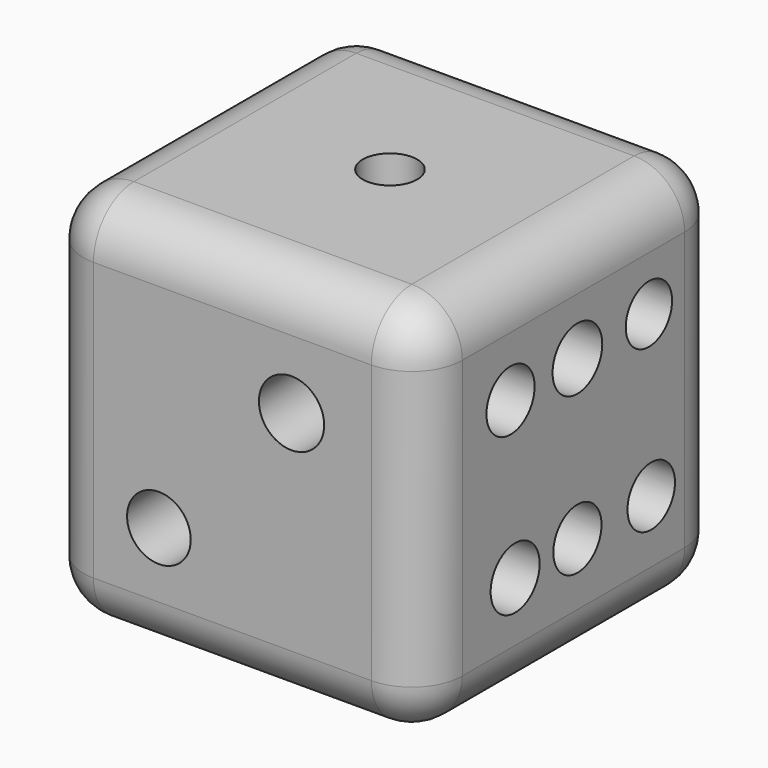
from build123d import *

# Parameters (mm, degrees)
F0_W      = 38.1
F0_H      = 38.1
F1_DEPTH  = 38.1
F2_R      = 5.08
F3_R      = 2.734829
F4_DEPTH  = 6.35
F5_R      = 3.201955
F5_R_2    = 3.279746
F6_DEPTH  = 6.35
F7_R      = 3.135653
F7_R_2    = 3.122225
F7_R_3    = 3.201953
F7_R_4    = 3.241083
F7_R_5    = 3.393092
F8_DEPTH  = 6.35
F9_R      = 2.898913
F9_R_2    = 2.984612
F9_R_3    = 2.913371
F10_DEPTH = 6.35
F11_R     = 3.026556
F11_R_2   = 2.956325
F11_R_3   = 3.380686
F11_R_4   = 2.913369
F12_DEPTH = 25.4
F13_R     = 3.026552
F13_R_2   = 3.122223
F13_R_3   = 3.026557
F13_R_4   = 3.081587
F13_R_5   = 2.984611
F13_R_6   = 2.913373
F14_DEPTH = 6.35


with BuildPart() as f1:
    # F0 (on Front) → F1 (new body)
    with BuildSketch(Plane.XZ):
        with Locations((-0.434836, -16.367298)):
            Rectangle(F0_W, F0_H)
    extrude(amount=F1_DEPTH)

    # F2
    f2_edges = [f1.edges().sort_by_distance(p)[0] for p in [
        (-19.484836, -19.05, 2.682702),
        (-0.434836, -38.1, 2.682702),
        (18.615164, -19.05, 2.682702),
        (-0.434836, 0, 2.682702),
        (18.615164, 0, -16.367298),
        (18.615164, -19.05, -35.417298),
        (-0.434836, 0, -35.417298),
        (18.615164, -38.1, -16.367298),
        (-19.484836, -38.1, -16.367298),
        (-0.434836, -38.1, -35.417298),
        (-19.484836, -19.05, -35.417298),
        (-19.484836, 0, -16.367298),
    ]]
    fillet(f2_edges, radius=F2_R)

    # F3 (on face) → F4 (cut)
    with BuildSketch(Plane.XY.offset(2.682702)):
        with Locations((0, -18.842936)):
            Circle(F3_R)
    extrude(amount=-F4_DEPTH, mode=Mode.SUBTRACT)

    # F5 (on face) → F6 (cut)
    with BuildSketch(Plane.XZ.offset(38.1)):
        with Locations((-7.827066, -23.771087)):
            Circle(F5_R)
        with Locations((5.507934, -9.276522)):
            Circle(F5_R_2)
    extrude(amount=-F6_DEPTH, mode=Mode.SUBTRACT)

    # F7 (on face) → F8 (cut)
    with BuildSketch(Plane(origin=(0, 0, -35.417298), x_dir=(1, 0, 0), z_dir=(0, 0, -1))):
        with Locations((0, 19.132826)):
            Circle(F7_R)
        with Locations((7.827064, 27.829565)):
            Circle(F7_R_2)
        with Locations((-9.27652, 27.829565)):
            Circle(F7_R_3)
        with Locations((-9.566413, 10.146196)):
            Circle(F7_R_4)
        with Locations((7.827064, 10.436087)):
            Circle(F7_R_5)
    extrude(amount=-F8_DEPTH, mode=Mode.SUBTRACT)

    # F9 (on face) → F10 (cut)
    with BuildSketch(Plane(origin=(0, 0, 0), x_dir=(-1, 0, 0), z_dir=(0, 1, 0))):
        with Locations((0, -17.103586)):
            Circle(F9_R)
        with Locations((9.27652, -7.827065)):
            Circle(F9_R_2)
        with Locations((-8.116957, -25.510436)):
            Circle(F9_R_3)
    extrude(amount=-F10_DEPTH, mode=Mode.SUBTRACT)

    # F11 (on face) → F12 (cut)
    with BuildSketch(Plane(origin=(-19.484836, 0, 0), x_dir=(0, -1, 0), z_dir=(-1, 0, 0))):
        with Locations((9.566412, -7.247283)):
            Circle(F11_R)
        with Locations((27.539674, -25.510436)):
            Circle(F11_R_2)
        with Locations((26.959889, -6.957392)):
            Circle(F11_R_3)
        with Locations((8.986631, -25.800327)):
            Circle(F11_R_4)
    extrude(amount=-F12_DEPTH, mode=Mode.SUBTRACT)

    # F13 (on face) → F14 (cut)
    with BuildSketch(Plane.YZ.offset(18.615164)):
        with Locations((-18.553045, -24.060978)):
            Circle(F13_R)
        with Locations((-18.553045, -8.116957)):
            Circle(F13_R_2)
        with Locations((-26.959889, -8.406848)):
            Circle(F13_R_3)
        with Locations((-26.380109, -24.350869)):
            Circle(F13_R_4)
        with Locations((-9.276524, -24.060978)):
            Circle(F13_R_5)
        with Locations((-9.566412, -7.827065)):
            Circle(F13_R_6)
    extrude(amount=-F14_DEPTH, mode=Mode.SUBTRACT)


solid = f1.part
